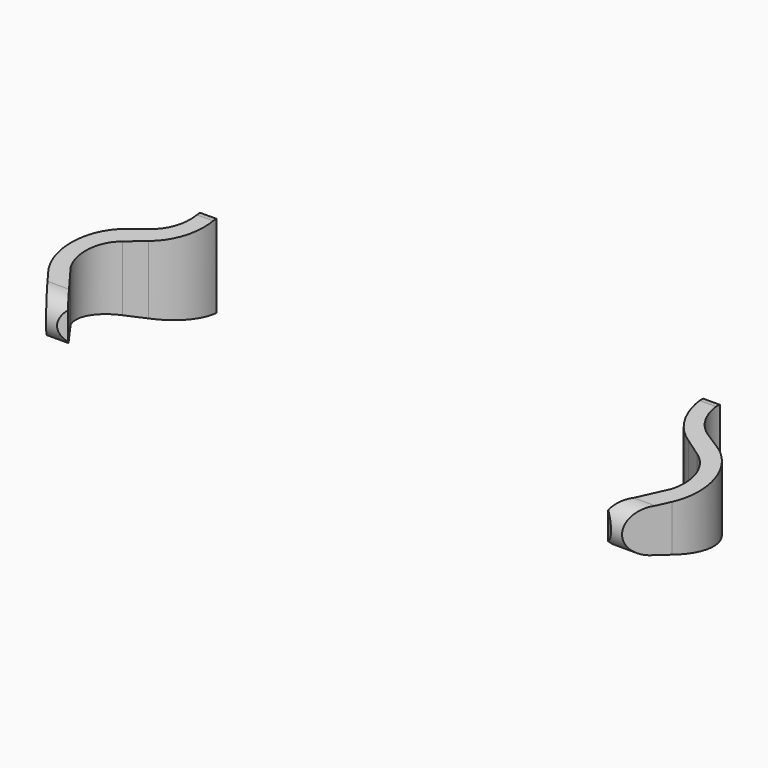
from build123d import *

# Parameters (mm, degrees)
PAD005_DEPTH = 1.5
PAD004_DEPTH = 1.95


with BuildPart() as hook_transform:
    # Sketch006 → Pad005 (new body, symmetric)
    with BuildSketch(Plane(origin=(-6.5, 0.09, 3.15), x_dir=(0, 1, 0), z_dir=(1, 0, 0))):
        with BuildLine():
            Line((-5.24, -1.17), (-8.47, -1.65))
            ThreePointArc((-8.47, -1.65), (-8.97, -2.15), (-8.47, -2.65))
            Line((-8.47, -2.65), (-5.24, -3.13))
            Line((-5.24, -3.63), (-5.24, -3.13))
            Line((-9.47, -3.63), (-5.24, -3.63))
            Line((-9.47, -0.67), (-9.47, -3.63))
            Line((-5.24, -0.67), (-9.47, -0.67))
            Line((-5.24, -1.17), (-5.24, -0.67))
        make_face()
    extrude(amount=PAD005_DEPTH, both=True)


with BuildPart() as left_hook:
    # Sketch005 → Pad004 (new body)
    with BuildSketch(Plane.XY):
        with BuildLine():
            Line((-6, -5.25), (-5.62, -5.25))
            ThreePointArc((-6.231273, -6.44653), (-5.748924, -5.938543), (-5.62, -5.25))
            Line((-6.626107, -6.696169), (-6.231273, -6.44653))
            ThreePointArc((-6.626107, -6.696169), (-7.010161, -7.1989), (-6.924165, -7.82567))
            Line((-6.235657, -8.764207), (-6.924165, -7.82567))
            Line((-6.558178, -9.000808), (-6.235657, -8.764207))
            Line((-7.197, -8.13), (-6.558178, -9.000808))
            ThreePointArc((-6.82412, -6.353573), (-7.407116, -7.158547), (-7.197, -8.13))
            Line((-6.82412, -6.353573), (-6.42, -6.12))
            ThreePointArc((-6.42, -6.12), (-6.076162, -5.749611), (-6, -5.25))
        make_face()
    extrude(amount=PAD004_DEPTH)

    # Cut: cut hook-transform
    add(hook_transform.part, mode=Mode.SUBTRACT)


with BuildPart() as left_hook_1:
    # Cut placement: moved
    add(left_hook.part.moved(Location((0, 0, -3.125))))


with BuildPart() as hooks:
    # Part__Mirroring002: instance of left-hook
    add(left_hook_1.part.mirror(Plane(origin=(0, 0, 0), x_dir=(0, -1, 0), z_dir=(1, 0, 0))))

    # Fusion004: union left-hook
    add(left_hook_1.part)


solid = hooks.part
